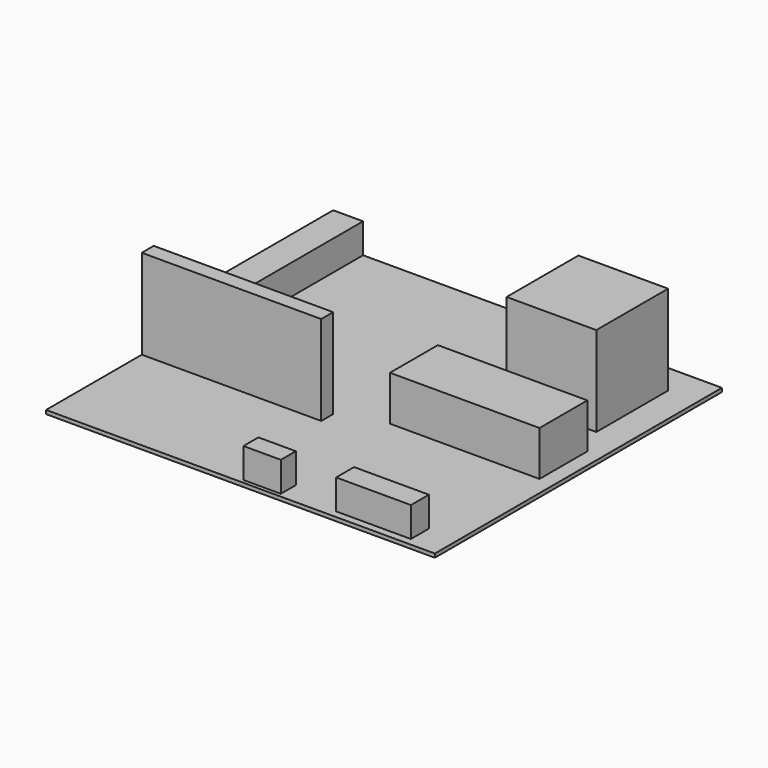
from build123d import *

# Parameters (mm, degrees)
F0_W      = 330.2
F0_H      = 304.8
F1_DEPTH  = 3.175
F2_W      = 76.2
F2_H      = 76.2
F3_DEPTH  = 76.2
F4_W      = 25.4
F4_H      = 152.4
F5_DEPTH  = 25.4
F6_W      = 152.4
F6_H      = 12.7
F7_DEPTH  = 76.2
F8_W      = 127
F8_H      = 50.8
F9_DEPTH  = 38.1
F10_W     = 63.5
F10_H     = 19.05
F11_DEPTH = 25.4
F12_W     = 31.75
F12_H     = 15.875
F13_DEPTH = 25.4


with BuildPart() as f1:
    # F0 (on Top) → F1 (new body)
    with BuildSketch(Plane.XY):
        with Locations((165.1, 152.4)):
            Rectangle(F0_W, F0_H)
    extrude(amount=F1_DEPTH)

    # F2 (on face) → F3 (join)
    with BuildSketch(Plane.XY.offset(3.175)):
        with Locations((266.7, 241.3)):
            Rectangle(F2_W, F2_H)
    extrude(amount=F3_DEPTH)

    # F4 (on face) → F5 (join)
    with BuildSketch(Plane.XY.offset(3.175)):
        with Locations((12.7, 228.6)):
            Rectangle(F4_W, F4_H)
    extrude(amount=F5_DEPTH)

    # F6 (on face) → F7 (join)
    with BuildSketch(Plane.XY.offset(3.175)):
        with Locations((76.2, 107.95)):
            Rectangle(F6_W, F6_H)
    extrude(amount=F7_DEPTH)

    # F8 (on face) → F9 (join)
    with BuildSketch(Plane.XY.offset(3.175)):
        with Locations((254, 152.4)):
            Rectangle(F8_W, F8_H)
    extrude(amount=F9_DEPTH)

    # F10 (on face) → F11 (join)
    with BuildSketch(Plane.XY.offset(3.175)):
        with Locations((273.05, 15.875)):
            Rectangle(F10_W, F10_H)
    extrude(amount=F11_DEPTH)

    # F12 (on face) → F13 (join)
    with BuildSketch(Plane.XY.offset(3.175)):
        with Locations((180.975, 11.1125)):
            Rectangle(F12_W, F12_H)
    extrude(amount=F13_DEPTH)


solid = f1.part
